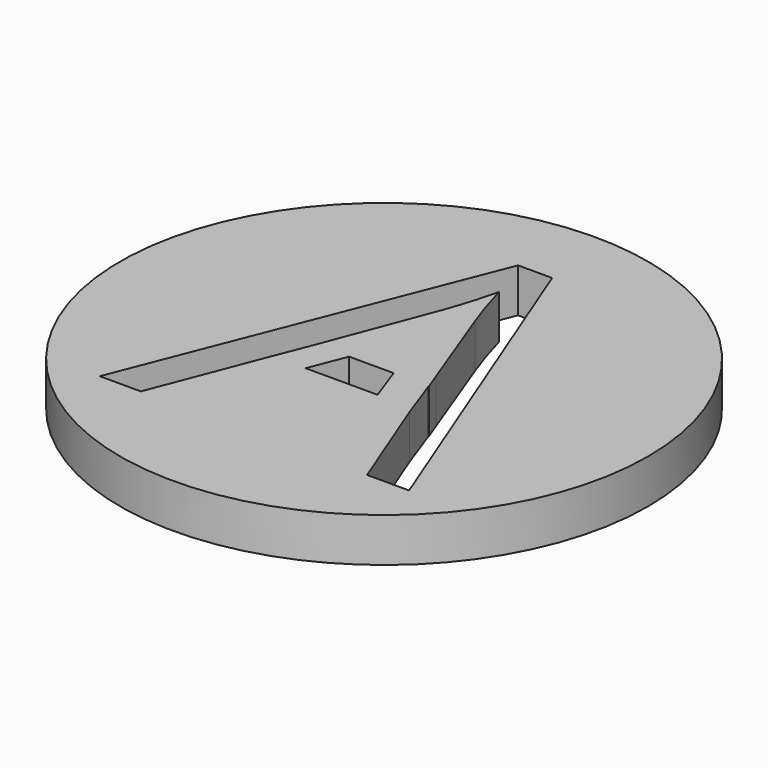
from build123d import *

# Parameters (mm, degrees)
F0_R     = 12
F1_DEPTH = 2
F3_DEPTH = 25


with BuildPart() as f1:
    # F0 (on Top) → F1 (new body)
    with BuildSketch(Plane.XY):
        Circle(F0_R)
    extrude(amount=F1_DEPTH)

    # F2 (on face) → F3 (cut)
    with BuildSketch(Plane.XY.offset(2)):
        Polygon((0.9441285923, -0.635007312), (-1.0818057465, -0.635007312), (-1.7335689496, -2.2947295342), (1.540004999, -2.2947295342), align=None)
        with BuildLine():
            Line((-3.2335689496, -2.2947295342), (-2.5818057465, -0.635007312))
            Line((-2.5818057465, -0.635007312), (-2.5819533685, -0.635007312))
            Line((-2.5819533685, -0.635007312), (-0.7173700352, 4.2816593546))
            add(Edge.make_bspline(
                [(-0.0333422574, 6.5698537991), (-0.2729255907, 5.5281871324), (-0.7173700352, 4.2816593546)],
                knots=[0, 0, 0, 1, 1, 1], degree=2))
            add(Edge.make_bspline(
                [(0.7027688537, 4.2816593546), (0.3451299648, 5.2156871324), (-0.0333422574, 6.5698537991)],
                knots=[0, 0, 0, 1, 1, 1], degree=2))
            Line((0.7027688537, 4.2816593546), (2.277085012, 0.0913742418))
            Line((2.277085012, 0.0913742418), (2.5499910759, -0.635007312))
            Line((2.5499910759, -0.635007312), (2.5378718017, -0.635007312))
            Line((2.5378718017, -0.635007312), (3.253200231, -2.6274447989))
            Line((3.253200231, -2.6274447989), (5.0986021871, -7.3398684231))
            Line((5.0986021871, -7.3398684231), (7.0083244093, -7.3398684231))
            Line((7.0083244093, -7.3398684231), (0.7687410759, 8.5906871324))
            Line((0.7687410759, 8.5906871324), (-0.7833422574, 8.5906871324))
            Line((-0.7833422574, 8.5906871324), (-7.0541755907, -7.3398684231))
            Line((-7.0541755907, -7.3398684231), (-5.1861200352, -7.3398684231))
            Line((-5.1861200352, -7.3398684231), (-3.3108156238, -2.4914390464))
            Line((-3.3108156238, -2.4914390464), (-3.2347311463, -2.2947295342))
            Line((-3.2347311463, -2.2947295342), (-3.2335689496, -2.2947295342))
        make_face()
    extrude(amount=-F3_DEPTH, mode=Mode.SUBTRACT)


solid = f1.part
